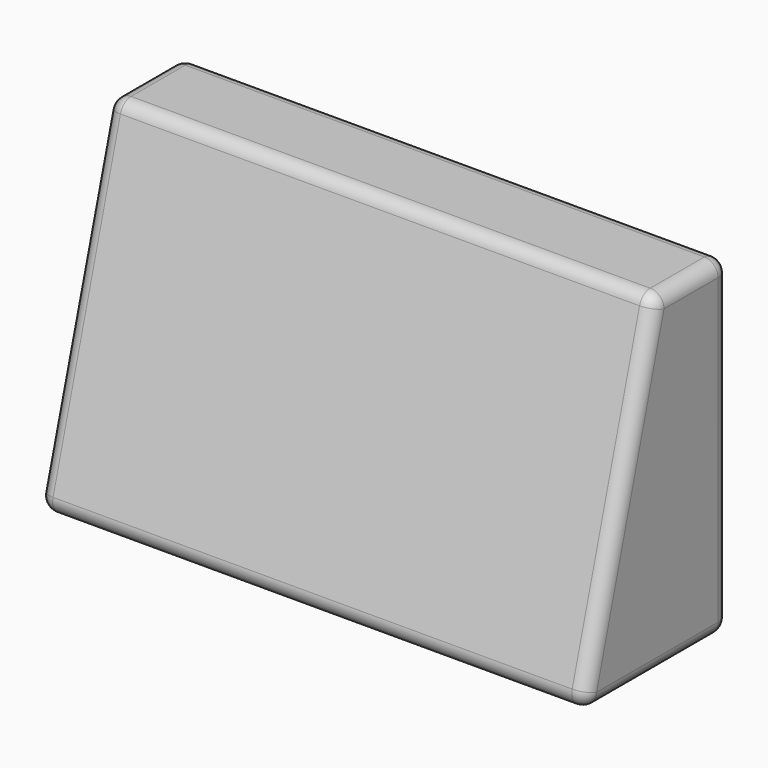
from build123d import *

# Parameters (mm, degrees)
F0_W     = 755.65
F0_H     = 254
F1_DEPTH = 457.2
F3_DEPTH = 755.651
F4_R     = 19.05


with BuildPart() as f1:
    # F0 (on Top) → F1 (new body)
    with BuildSketch(Plane.XY):
        Rectangle(F0_W, F0_H)
    extrude(amount=F1_DEPTH)

    # F2 (on face) → F3 (cut, through all)
    with BuildSketch(Plane.YZ.offset(377.825)):
        Polygon((-127, 457.2), (-127, 0), (0, 457.2), align=None)
    extrude(amount=-F3_DEPTH, mode=Mode.SUBTRACT)

    # F4
    f4_edges = [f1.edges().sort_by_distance(p)[0] for p in [
        (0, -127, 0),
        (377.825, 0, 0),
        (377.825, -63.5, 228.6),
        (-377.825, -63.5, 228.6),
        (-377.825, 0, 0),
        (-377.825, 63.5, 457.2),
        (0, 0, 457.2),
        (377.825, 63.5, 457.2),
        (377.825, 127, 228.6),
        (0, 127, 0),
        (-377.825, 127, 228.6),
        (0, 127, 457.2),
    ]]
    fillet(f4_edges, radius=F4_R)


solid = f1.part
